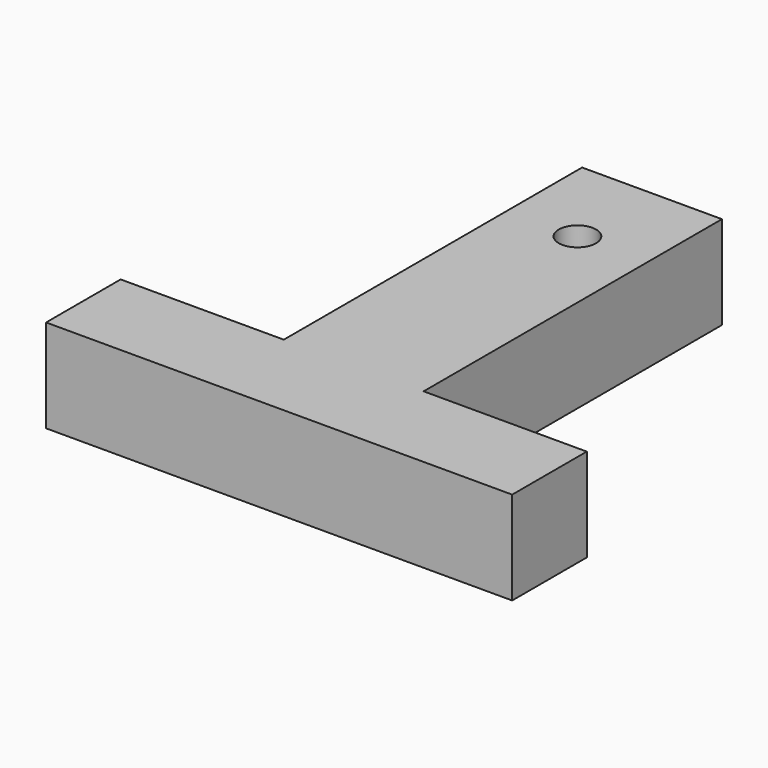
from build123d import *

# Parameters (mm, degrees)
F1_DEPTH = 20
F2_R     = 4
F3_DEPTH = 20.001


with BuildPart() as f1:
    # F0 (on Top) → F1 (new body)
    with BuildSketch(Plane.XY):
        Polygon((-50, 0), (0, 0), (50, 0), (50, 20), (15, 20), (15, 100), (0, 100), (-15, 100), (-15, 20), (-50, 20), align=None)
    extrude(amount=F1_DEPTH)

    # F2 (on face) → F3 (cut, through all)
    with BuildSketch(Plane.XY.offset(20)):
        with Locations((0, 80)):
            Circle(F2_R)
    extrude(amount=-F3_DEPTH, mode=Mode.SUBTRACT)


solid = f1.part
